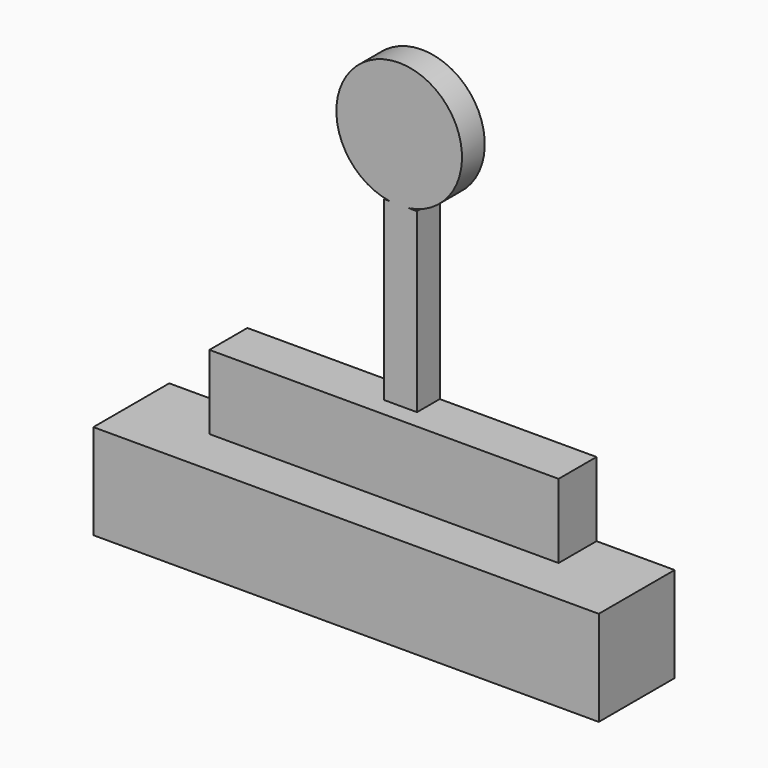
from build123d import *

# Parameters (mm, degrees)
F0_W     = 135.3589
F0_H     = 25.492367
F1_DEPTH = 25.4
F2_W     = 93.518182
F2_H     = 19.950546
F3_DEPTH = 12.7
F4_W     = 8.866911
F4_H     = 47.382544
F5_DEPTH = 7.62
F6_R     = 16.823006
F7_DEPTH = 7.62


with BuildPart() as f1:
    # F0 (on Front) → F1 (new body)
    with BuildSketch(Plane.XZ):
        with Locations((0, -40.080897)):
            Rectangle(F0_W, F0_H)
    extrude(amount=F1_DEPTH)

    # F2 (on Front) → F3 (join)
    with BuildSketch(Plane.XZ):
        with Locations((0, -17.456727)):
            Rectangle(F2_W, F2_H)
    extrude(amount=F3_DEPTH)

    # F4 (on Front) → F5 (join)
    with BuildSketch(Plane.XZ):
        with Locations((0.346363, 16.209817)):
            Rectangle(F4_W, F4_H)
    extrude(amount=F5_DEPTH)

    # F6 (on Front) → F7 (join)
    with BuildSketch(Plane.XZ):
        with Locations((0, 56.526545)):
            Circle(F6_R)
    extrude(amount=F7_DEPTH)


solid = f1.part
